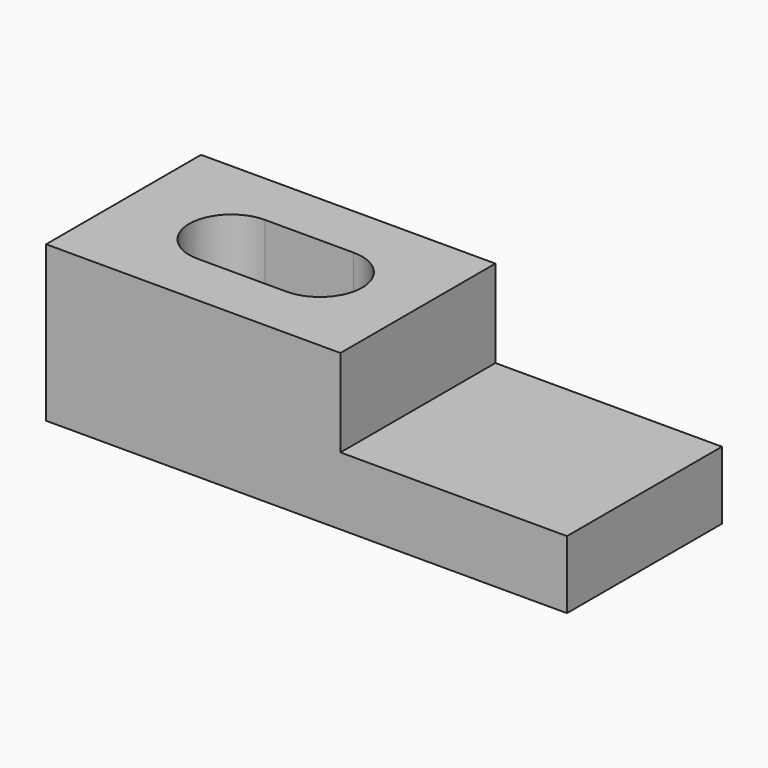
from build123d import *

# Parameters (mm, degrees)
SKETCH_W        = 23.8
SKETCH_H        = 8.85
PAD_DEPTH       = 7.1
SKETCH001_W     = 10.35
SKETCH001_H     = 8.85
POCKET_DEPTH    = 4
POCKET001_DEPTH = 7.101
POCKET002_DEPTH = 2


with BuildPart() as part:
    # Sketch → Pad (new body)
    with BuildSketch(Plane.XY):
        Rectangle(SKETCH_W, SKETCH_H)
    extrude(amount=PAD_DEPTH)

    # Sketch001 → Pocket (cut)
    with BuildSketch(Plane.XY.offset(7.1)):
        with Locations((6.725, 0)):
            Rectangle(SKETCH001_W, SKETCH001_H)
    extrude(amount=-POCKET_DEPTH, mode=Mode.SUBTRACT)

    # Sketch002 → Pocket001 (cut, through all)
    with BuildSketch(Plane.XY.offset(7.1)):
        with BuildLine():
            ThreePointArc((-6.975, 1.925), (-8.9, 0), (-6.975, -1.925))
            Line((-6.975, -1.925), (-2.925, -1.925))
            ThreePointArc((-2.925, -1.925), (-1, 0), (-2.925, 1.925))
            Line((-6.975, 1.925), (-2.925, 1.925))
        make_face()
    extrude(amount=-POCKET001_DEPTH, mode=Mode.SUBTRACT)

    # Sketch003 → Pocket002 (cut)
    with BuildSketch(Plane(origin=(0, 0, 0), x_dir=(1, 0, 0), z_dir=(0, 0, -1))):
        with BuildLine():
            ThreePointArc((-6.8, 3.6), (-10.4, 0), (-6.8, -3.6))
            Line((-6.8, -3.6), (-3.36, -3.6))
            ThreePointArc((-3.36, -3.6), (0.24, 0), (-3.36, 3.6))
            Line((-6.8, 3.6), (-3.36, 3.6))
        make_face()
    extrude(amount=-POCKET002_DEPTH, mode=Mode.SUBTRACT)


solid = part.part
